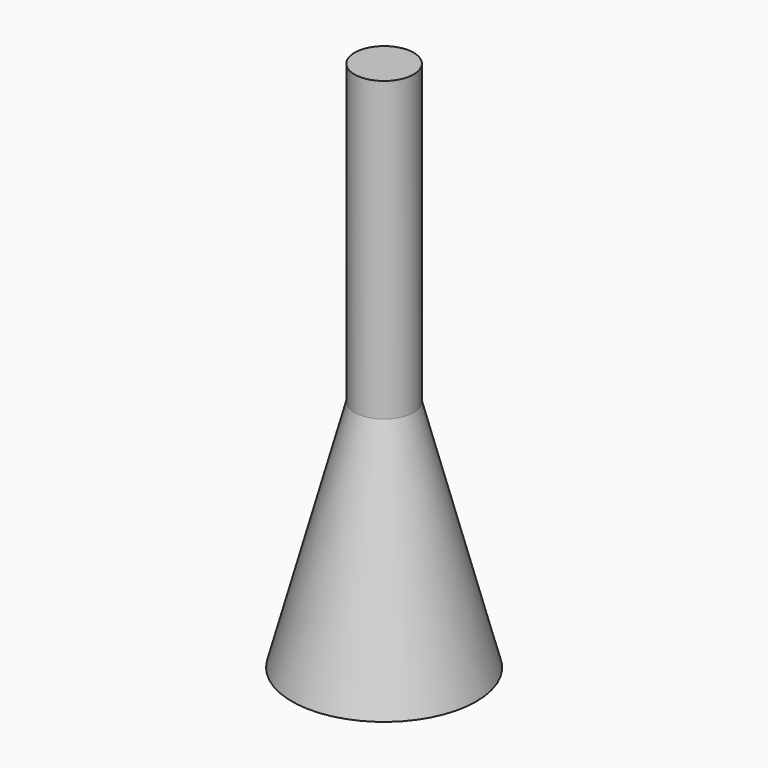
from build123d import *


with BuildPart() as part:
    # Sketch → Revolution (revolve)
    with BuildSketch(Plane.XZ):
        Polygon((0.5, 3.960296), (1.561158, 0), (0, 0), (0, 9.000296), (0.5, 9.000296), align=None)
    revolve(axis=Axis((0, 0, 0), (0, 0, 1)))


solid = part.part
